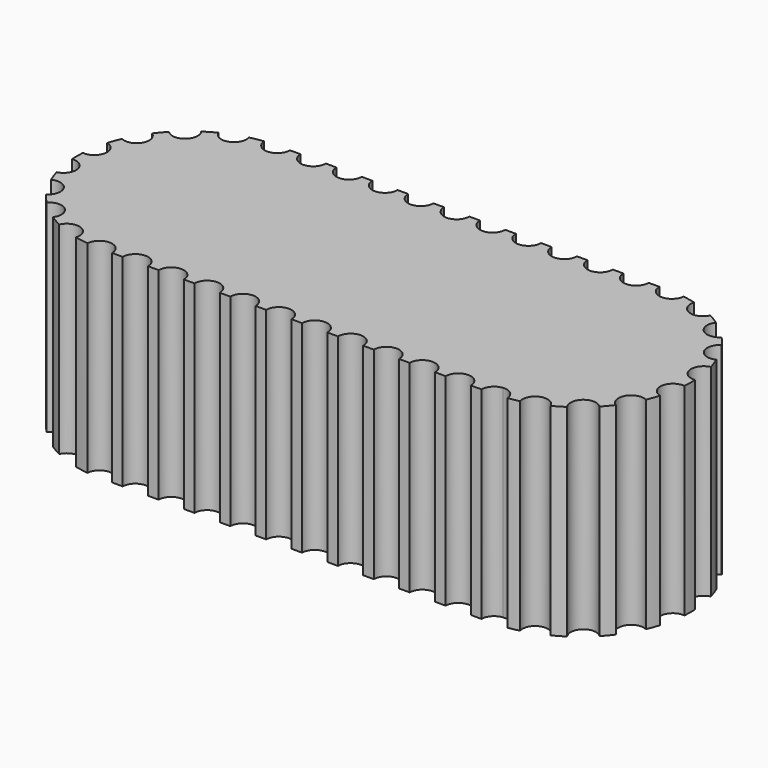
from build123d import *

# Parameters (mm, degrees)
F1_DEPTH = 101.6
F2_R     = 6.35
F3_DEPTH = 101.601


with BuildPart() as f1:
    # F0 (on Top) → F1 (new body)
    with BuildSketch(Plane.XY):
        with BuildLine():
            Line((0, 55.88), (-196.6468, 55.88))
            ThreePointArc((-196.6468, 55.88), (-252.5268, 0), (-196.6468, -55.88))
            Line((-196.6468, -55.88), (0, -55.88))
            ThreePointArc((0, -55.88), (55.88, 0), (0, 55.88))
        make_face()
    extrude(amount=F1_DEPTH)

    # F2 (on face) → F3 (cut, through all)
    with BuildSketch(Plane.XY.offset(101.6)):
        with Locations((-196.6468, 55.88)):
            Circle(F2_R)
        with Locations((-178.6128, 55.88)):
            Circle(F2_R)
        with Locations((-160.5788, 55.88)):
            Circle(F2_R)
        with Locations((-142.5448, 55.88)):
            Circle(F2_R)
        with Locations((-124.5108, 55.88)):
            Circle(F2_R)
        with Locations((-106.4768, 55.88)):
            Circle(F2_R)
        with Locations((-88.4428, 55.88)):
            Circle(F2_R)
        with Locations((-70.4088, 55.88)):
            Circle(F2_R)
        with Locations((-52.3748, 55.88)):
            Circle(F2_R)
        with Locations((-34.3408, 55.88)):
            Circle(F2_R)
        with Locations((-16.3068, 55.88)):
            Circle(F2_R)
        with Locations((1.7272, 55.88)):
            Circle(F2_R)
        with Locations((-196.6468, -55.88)):
            Circle(F2_R)
        with Locations((-178.6128, -55.88)):
            Circle(F2_R)
        with Locations((-160.5788, -55.88)):
            Circle(F2_R)
        with Locations((-142.5448, -55.88)):
            Circle(F2_R)
        with Locations((-124.5108, -55.88)):
            Circle(F2_R)
        with Locations((-106.4768, -55.88)):
            Circle(F2_R)
        with Locations((-88.4428, -55.88)):
            Circle(F2_R)
        with Locations((-70.4088, -55.88)):
            Circle(F2_R)
        with Locations((-52.3748, -55.88)):
            Circle(F2_R)
        with Locations((-34.3408, -55.88)):
            Circle(F2_R)
        with Locations((-16.3068, -55.88)):
            Circle(F2_R)
        with BuildLine():
            ThreePointArc((1.081132, -49.562952), (-2.528383, -60.593016), (8.0772, -55.88))
            ThreePointArc((8.0772, -55.88), (5.982783, -51.166984), (1.081132, -49.562952))
        make_face()
        with Locations((-215.758886, 52.510024)):
            Circle(F2_R)
        with Locations((-232.565772, 42.806563)):
            Circle(F2_R)
        with Locations((-245.0403, 27.94)):
            Circle(F2_R)
        with Locations((-251.677857, 9.70346)):
            Circle(F2_R)
        with Locations((-251.677857, -9.70346)):
            Circle(F2_R)
        with Locations((-245.0403, -27.94)):
            Circle(F2_R)
        with Locations((-232.565772, -42.806563)):
            Circle(F2_R)
        with Locations((-215.758886, -52.510024)):
            Circle(F2_R)
        with Locations((20.483246, 52.019172)):
            Circle(F2_R)
        with Locations((36.836167, 42.055374)):
            Circle(F2_R)
        with Locations((48.867411, 27.157574)):
            Circle(F2_R)
        with Locations((55.165454, 9.073605)):
            Circle(F2_R)
        with Locations((54.991401, -10.074893)):
            Circle(F2_R)
        with Locations((48.365671, -28.041389)):
            Circle(F2_R)
        with Locations((36.065606, -42.718026)):
            Circle(F2_R)
        with Locations((19.534267, -52.382917)):
            Circle(F2_R)
    extrude(amount=-F3_DEPTH, mode=Mode.SUBTRACT)


solid = f1.part
